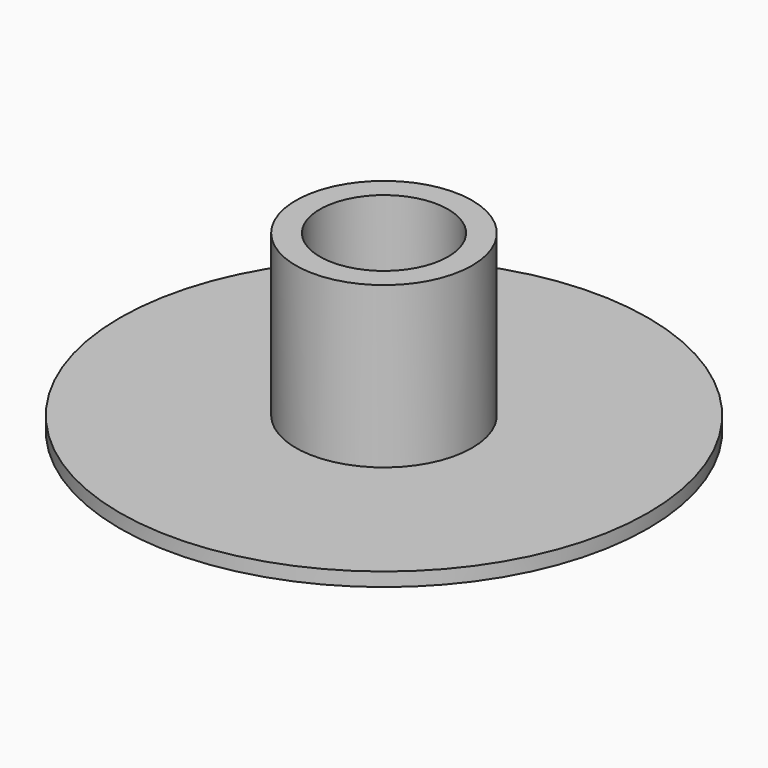
from build123d import *

# Parameters (mm, degrees)
F0_R     = 12.85
F1_DEPTH = 25.4
F2_R     = 38.5
F2_R_2   = 12.85
F3_DEPTH = 2
F4_R     = 9.35
F5_DEPTH = 60


with BuildPart() as f1:
    # F0 (on Top) → F1 (new body)
    with BuildSketch(Plane.XY):
        Circle(F0_R)
    extrude(amount=F1_DEPTH)

    # F4 (on face) → F5 (cut)
    with BuildSketch(Plane.XY.offset(25.4)):
        Circle(F4_R)
    extrude(amount=-F5_DEPTH, mode=Mode.SUBTRACT)


with BuildPart() as f3:
    # F2 (on face) → F3 (new body)
    with BuildSketch(Plane(origin=(0, 0, 0), x_dir=(1, 0, 0), z_dir=(0, 0, -1))):
        Circle(F2_R)
        Circle(F2_R_2, mode=Mode.SUBTRACT)
    extrude(amount=-F3_DEPTH)


solid = Compound([f1.part, f3.part])
